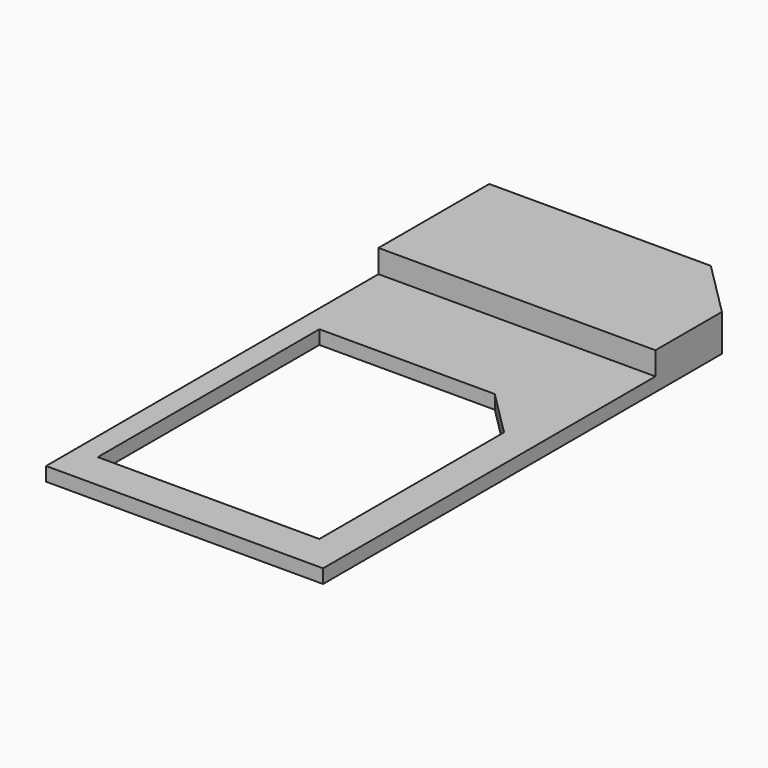
from build123d import *

# Parameters (mm, degrees)
F0_W     = 15
F0_H     = 22.5
F1_DEPTH = 0.75
F2_DEPTH = 2


with BuildPart() as f1:
    # F0 (on Top) → F1 (new body)
    with BuildSketch(Plane.XY):
        with Locations((-24.588022, -15.75)):
            Rectangle(F0_W, F0_H)
        Polygon((-18.888022, -25), (-30.888022, -25), (-30.888022, -10), (-21.388022, -10), (-18.888022, -12.5), align=None, mode=Mode.SUBTRACT)
    extrude(amount=F1_DEPTH)

    # F0 (on Top) → F2 (join)
    with BuildSketch(Plane.XY):
        Polygon((-32.088022, 3), (-32.088022, -4.5), (-17.088022, -4.5), (-17.088022, 0), (-20.088022, 3), align=None)
    extrude(amount=F2_DEPTH)


solid = f1.part
